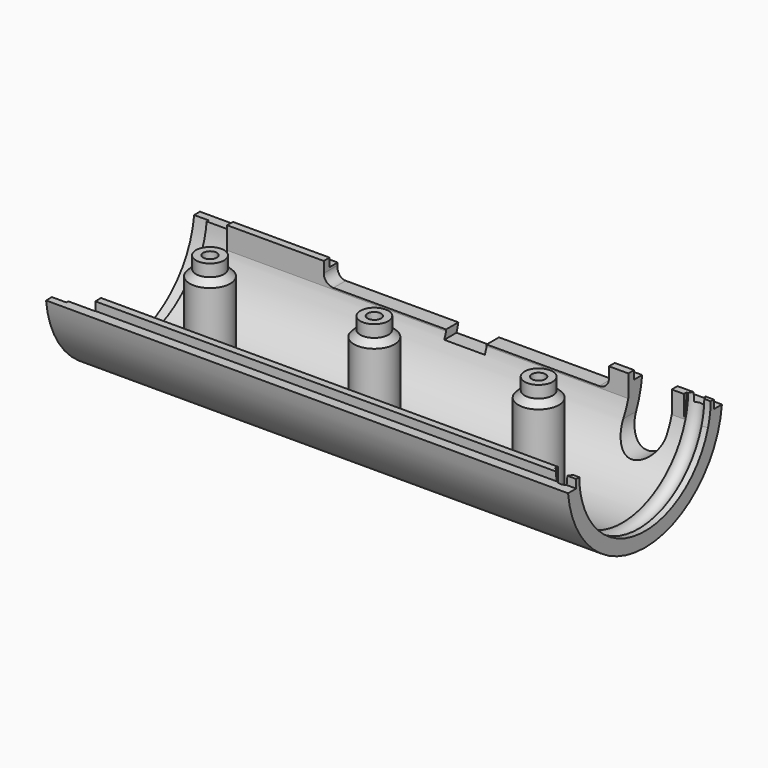
from build123d import *

# Parameters (mm, degrees)
PAD028_DEPTH           = 108
CYLINDER072_R          = 18.5
CYLINDER072_DEPTH      = 3
CYLINDER073_W          = 18
CYLINDER073_H          = 5.5
CYLINDER073_ANGLE      = 21
CYLINDER076_R          = 17
CYLINDER076_DEPTH      = 5
TORUS002_R             = 1.75
POCKET019_DEPTH        = 10
POCKET022_DEPTH        = 10
SKETCH116_R            = 2.7
POCKET023_DEPTH        = 20.001
LINEARPATTERN002_COUNT = 3
LINEARPATTERN002_PITCH = 34


with BuildPart() as part:
    # Sketch043 → Pad028 (new body)
    with BuildSketch(Plane.YZ):
        with BuildLine():
            ThreePointArc((-19.899749, -2), (0, -20), (19.899749, -2))
            Line((19.899749, -2), (17.799749, -2))
            Line((17.799749, -2), (17.799749, -0.25))
            Line((17.799749, -0.25), (16.299749, -0.25))
            Line((16.299749, -0.25), (16.299749, -4.828891))
            ThreePointArc((-16.299749, -4.828891), (0, -17), (16.299749, -4.828891))
            Line((-16.299749, -4.828891), (-16.299749, -0.25))
            Line((-16.299749, -0.25), (-17.799749, -0.25))
            Line((-17.799749, -0.25), (-17.799749, -2))
            Line((-17.799749, -2), (-19.899749, -2))
        make_face()
    extrude(amount=PAD028_DEPTH)

    # Cylinder072 → Cylinder072 (cut)
    with BuildSketch(Plane.YZ):
        Circle(CYLINDER072_R)
    extrude(amount=CYLINDER072_DEPTH, mode=Mode.SUBTRACT)

    # Cylinder073 → Cylinder073 (revolve, cut)
    with BuildSketch(Plane(origin=(3, 0, 0), x_dir=(0, -1, 0), z_dir=(0, 0, 1))):
        with Locations((9, 2.75)):
            Rectangle(CYLINDER073_W, CYLINDER073_H)
    cylinder073 = revolve(axis=Axis((3, 0, 0), (1, 0, 0)), revolution_arc=CYLINDER073_ANGLE, mode=Mode.SUBTRACT)

    # Mirrored013: Cylinder073 across XZ
    add(cylinder073.mirror(Plane.XZ), mode=Mode.SUBTRACT)

    # Cylinder076 → Cylinder076 (cut)
    with BuildSketch(Plane.YZ.offset(103)):
        Circle(CYLINDER076_R)
    extrude(amount=CYLINDER076_DEPTH, mode=Mode.SUBTRACT)

    # Torus002 → Torus002 (revolve, cut)
    with BuildSketch(Plane(origin=(105, 0, 0), x_dir=(0, 1, 0), z_dir=(0, 0, -1))):
        with Locations((16.5, 0)):
            Circle(TORUS002_R)
    revolve(axis=Axis((105, 0, 0), (1, 0, 0)), mode=Mode.SUBTRACT)

    # Sketch104 → Pocket019 (cut)
    with BuildSketch(Plane(origin=(96, 20, 0), x_dir=(1, 0, 0), z_dir=(0, -1, 0))):
        with BuildLine():
            ThreePointArc((-4.5, -8), (0, -12.5), (4.5, -8))
            Line((4.5, -8), (4.5, 0))
            Line((4.5, 0), (-4.5, 0))
            Line((-4.5, -8), (-4.5, 0))
        make_face()
    extrude(amount=POCKET019_DEPTH, mode=Mode.SUBTRACT)

    # Sketch107 → Pocket022 (cut)
    with BuildSketch(Plane(origin=(58, 20, 0), x_dir=(1, 0, 0), z_dir=(0, -1, 0))):
        with BuildLine():
            Line((-29.5, 0), (29.5, 0))
            Line((29.5, 0), (29.5, -2.5))
            ThreePointArc((27.5, -4.5), (28.914214, -3.914214), (29.5, -2.5))
            Line((4.2, -4.5), (27.5, -4.5))
            Line((4.2, -6.2), (4.2, -4.5))
            Line((-4.2, -6.2), (4.2, -6.2))
            Line((-4.2, -4.5), (-4.2, -6.2))
            Line((-27.5, -4.5), (-4.2, -4.5))
            ThreePointArc((-29.5, -2.5), (-28.914214, -3.914214), (-27.5, -4.5))
            Line((-29.5, 0), (-29.5, -2.5))
        make_face()
    extrude(amount=POCKET022_DEPTH, mode=Mode.SUBTRACT)

    # Sketch116 → Pocket023 (cut, through all)
    with BuildSketch(Plane.XY):
        with Locations((18, 0)):
            Circle(SKETCH116_R)
        with Locations((52, 0)):
            Circle(SKETCH116_R)
        with Locations((86, 0)):
            Circle(SKETCH116_R)
    extrude(amount=-POCKET023_DEPTH, mode=Mode.SUBTRACT)

    # Sketch117 → Revolution005 (revolve)
    with BuildSketch(Plane(origin=(18, 0, -18), x_dir=(0, 1, 0), z_dir=(1, 0, 0))):
        Polygon((1.4, 22), (2.9, 22), (2.9, 19.5), (4.2, 18.2), (4.2, 0), (2.7, 0), (2.7, 16.7), (1.4, 18), align=None)
    revolution005 = revolve(axis=Axis((18, 0, -18), (0, 0, 1)))

    # LinearPattern002: Revolution005 ×3
    with Locations(*[(i * LINEARPATTERN002_PITCH, 0, 0) for i in range(1, LINEARPATTERN002_COUNT)]):
        add(revolution005)


with BuildPart() as part_1:
    # Body042 placement: moved
    add(part.part.moved(Location((-10, 0, 54))))


solid = part_1.part
